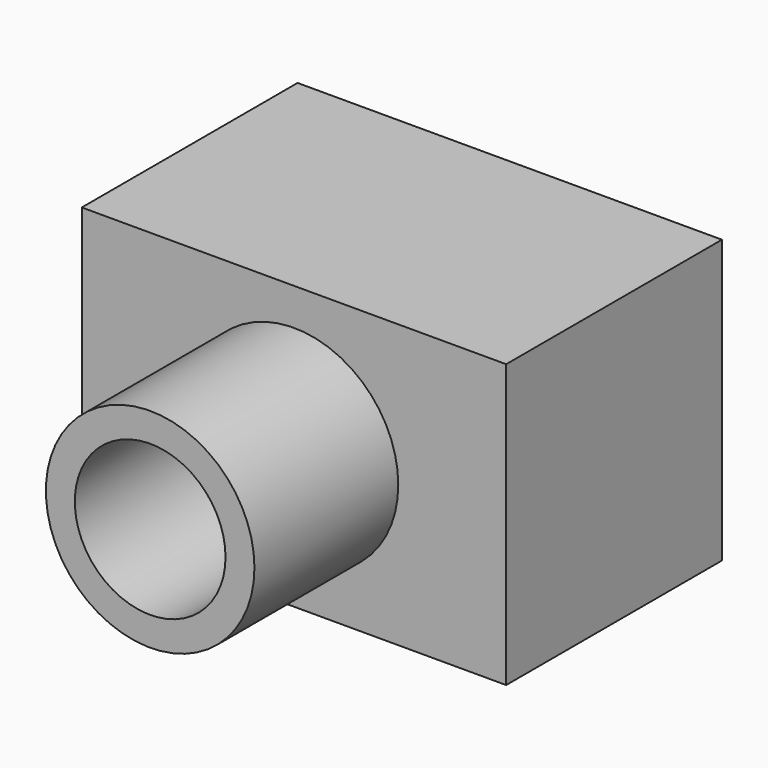
from build123d import *

# Parameters (mm, degrees)
F0_W     = 119.907736
F0_H     = 79.817384
F0_R     = 22.149013
F2_DEPTH = 76.2
F1_R     = 29.46463
F1_R_2   = 21.294575
F3_DEPTH = 127


with BuildPart() as f2:
    # F0 (on Front) → F2 (new body)
    with BuildSketch(Plane.XZ):
        Rectangle(F0_W, F0_H)
        Circle(F0_R, mode=Mode.SUBTRACT)
    extrude(amount=F2_DEPTH)

    # F1 (on Front) → F3 (join)
    with BuildSketch(Plane.XZ):
        Circle(F1_R)
        Circle(F1_R_2, mode=Mode.SUBTRACT)
    extrude(amount=F3_DEPTH)


solid = f2.part
